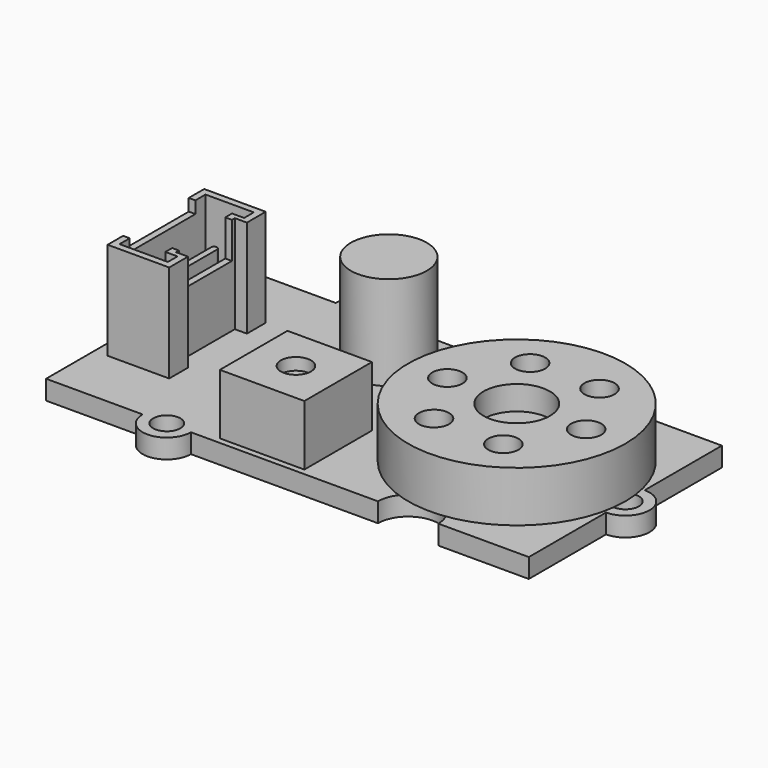
from build123d import *

# Parameters (mm, degrees)
PAD_DEPTH               = 1.6
SKETCH001_R             = 1.125
POCKET_DEPTH            = 1.601
PAD005_DEPTH            = 8.1
POCKET003_DEPTH         = 7
SKETCH010_W             = 6.8
SKETCH010_H             = 5
POCKET004_DEPTH         = 1
SKETCH011_W             = 5.5
SKETCH011_H             = 3
POCKET005_DEPTH         = 3
PAD006_DEPTH            = 4
PAD007_DEPTH            = 3.4
BODY005_PLACEMENT_ANGLE = 90
SKETCH014_R             = 9
PAD008_DEPTH            = 4.2
SKETCH015_R             = 2.75
POCKET006_DEPTH         = 2
SKETCH016_R             = 1.25
POCKET007_DEPTH         = 2
SKETCH017_W             = 7
SKETCH017_H             = 7
PAD009_DEPTH            = 5
SKETCH018_R             = 1.25
POCKET008_DEPTH         = 1
SKETCH019_R             = 3.15
PAD010_DEPTH            = 7.8


with BuildPart() as obj1:
    # Sketch → Pad (new body)
    with BuildSketch(Plane.XY):
        with BuildLine():
            Line((-20, 10), (-12, 10))
            ThreePointArc((-8, 10), (-10, 12), (-12, 10))
            Line((-8, 10), (0, 10))
            Line((0, 10), (7.5, 10))
            ThreePointArc((7.5, 10), (10, 7.5), (12.5, 10))
            Line((12.5, 10), (20, 10))
            Line((20, 10), (20, 2))
            ThreePointArc((20, -2), (22, 0), (20, 2))
            Line((20, -10), (20, -2))
            Line((20, -10), (12.5, -10))
            ThreePointArc((12.5, -10), (10, -7.5), (7.5, -10))
            Line((7.5, -10), (0, -10))
            Line((0, -10), (-8, -10))
            ThreePointArc((-12, -10), (-10, -12), (-8, -10))
            Line((-12, -10), (-20, -10))
            Line((-20, -10), (-20, -2.5))
            ThreePointArc((-20, -2.5), (-17.5, 0), (-20, 2.5))
            Line((-20, 10), (-20, 2.5))
        make_face()
    extrude(amount=PAD_DEPTH)

    # Sketch001 → Pocket (cut, through all)
    with BuildSketch(Plane.XY):
        with Locations((-10, 10)):
            Circle(SKETCH001_R)
        with Locations((-10, -10)):
            Circle(SKETCH001_R)
        with Locations((20, 0)):
            Circle(SKETCH001_R)
    extrude(amount=POCKET_DEPTH, mode=Mode.SUBTRACT)


with BuildPart() as obj2:
    # Sketch008 → Pad005 (new body)
    with BuildSketch(Plane.XY):
        Polygon((-5, 0), (-3.05, 0), (-3.05, 1), (3.05, 1), (3.05, 0), (5, 0), (5, 5.1), (-5, 5.1), align=None)
    extrude(amount=PAD005_DEPTH)

    # Sketch009 (on Face10 of Pad005) → Pocket003 (cut)
    with BuildSketch(Plane.XY.offset(8.1)):
        Polygon((-4.45, 0.55), (-3.45, 0.55), (-3.45, 1.55), (3.45, 1.55), (3.45, 0.55), (4.45, 0.55), (4.45, 4.55), (-4.45, 4.55), align=None)
    extrude(amount=-POCKET003_DEPTH, mode=Mode.SUBTRACT)

    # Sketch010 (on Face5 of Pocket003) → Pocket004 (cut)
    with BuildSketch(Plane.XY.offset(8.1)):
        with Locations((0, 5.5)):
            Rectangle(SKETCH010_W, SKETCH010_H)
    extrude(amount=-POCKET004_DEPTH, mode=Mode.SUBTRACT)

    # Sketch011 (on Face5 of Pocket004) → Pocket005 (cut)
    with BuildSketch(Plane.XY.offset(8.1)):
        with Locations((0, 1.5)):
            Rectangle(SKETCH011_W, SKETCH011_H)
    extrude(amount=-POCKET005_DEPTH, mode=Mode.SUBTRACT)

    # Sketch012 (on Face26 of Pocket005) → Pad006 (join)
    with BuildSketch(Plane.XY.offset(1.1)):
        with BuildLine():
            ThreePointArc((-3.4, 3.25), (-3.65, 3), (-3.4, 2.75))
            Line((-3.4, 2.75), (3.4, 2.75))
            ThreePointArc((3.4, 2.75), (3.65, 3), (3.4, 3.25))
            Line((-3.4, 3.25), (3.4, 3.25))
        make_face()
    extrude(amount=PAD006_DEPTH)

    # Sketch013 → Pad007 (join)
    with BuildSketch(Plane.XY):
        with BuildLine():
            ThreePointArc((-3, 3.75), (-3.75, 3), (-3, 2.25))
            Line((-3, 2.25), (3, 2.25))
            ThreePointArc((3, 2.25), (3.75, 3), (3, 3.75))
            Line((-3, 3.75), (3, 3.75))
        make_face()
    extrude(amount=-PAD007_DEPTH)


with BuildPart() as obj2_1:
    # Body005 placement: moved
    add(obj2.part.moved(Location((-13.8, 0, 1.6))).rotate(Axis((-13.8, 0, 1.6), (0, 0, 1)), BODY005_PLACEMENT_ANGLE))


with BuildPart() as speaker:
    # Sketch014 → Pad008 (new body)
    with BuildSketch(Plane.XY):
        Circle(SKETCH014_R)
    extrude(amount=PAD008_DEPTH)

    # Sketch015 (on Face3 of Pad008) → Pocket006 (cut)
    with BuildSketch(Plane.XY.offset(4.2)):
        Circle(SKETCH015_R)
    extrude(amount=-POCKET006_DEPTH, mode=Mode.SUBTRACT)

    # Sketch016 (on Face3 of Pocket006) → Pocket007 (cut)
    with BuildSketch(Plane.XY.offset(4.2)):
        with Locations((5.75, 0)):
            Circle(SKETCH016_R)
        with Locations((-5.75, 0)):
            Circle(SKETCH016_R)
        with Locations((-2.875, 4.979646)):
            Circle(SKETCH016_R)
        with Locations((2.875, 4.979646)):
            Circle(SKETCH016_R)
        with Locations((2.875, -4.979646)):
            Circle(SKETCH016_R)
        with Locations((-2.875, -4.979646)):
            Circle(SKETCH016_R)
    extrude(amount=-POCKET007_DEPTH, mode=Mode.SUBTRACT)


with BuildPart() as speaker_1:
    # Body006 placement: moved
    add(speaker.part.moved(Location((11, 0, 1.6))))


with BuildPart() as volumepot:
    # Sketch017 → Pad009 (new body)
    with BuildSketch(Plane.XY):
        with Locations((3.5, 3.5)):
            Rectangle(SKETCH017_W, SKETCH017_H)
    extrude(amount=PAD009_DEPTH)

    # Sketch018 (on Face6 of Pad009) → Pocket008 (cut)
    with BuildSketch(Plane.XY.offset(5)):
        with Locations((3.5, 3.5)):
            Circle(SKETCH018_R)
    extrude(amount=-POCKET008_DEPTH, mode=Mode.SUBTRACT)


with BuildPart() as volumepot_1:
    # Body007 placement: moved
    add(volumepot.part.moved(Location((-6, -9.5, 1.6))))


with BuildPart() as capacitor:
    # Sketch019 → Pad010 (new body)
    with BuildSketch(Plane.XY):
        Circle(SKETCH019_R)
    extrude(amount=PAD010_DEPTH)


with BuildPart() as capacitor_1:
    # Body008 placement: moved
    add(capacitor.part.moved(Location((-4, 5.5, 1.6))))


solid = Compound([obj1.part, obj2_1.part, speaker_1.part, volumepot_1.part, capacitor_1.part])
